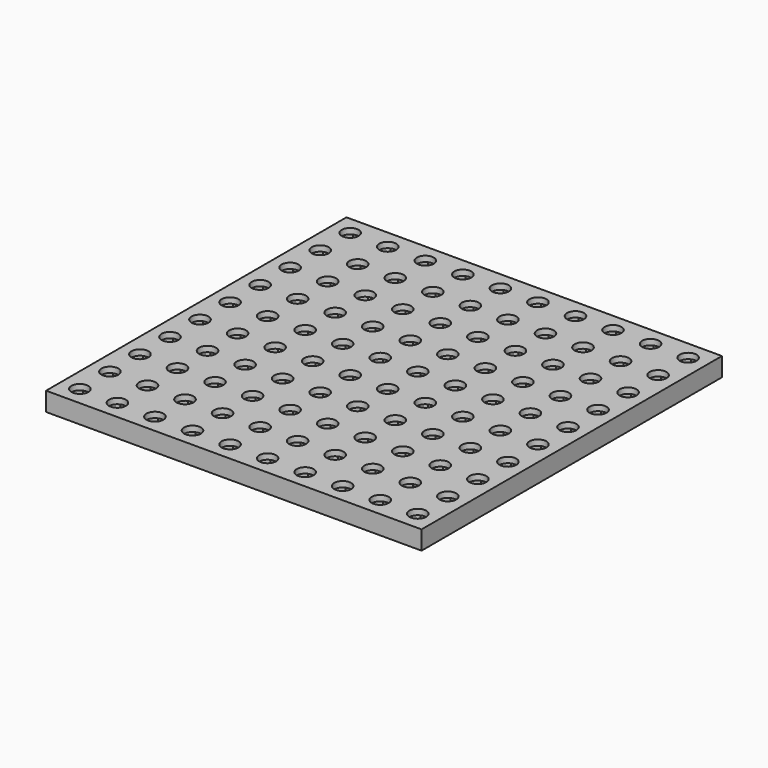
from build123d import *

# Parameters (mm, degrees)
PAD_DEPTH         = 3.5
CYLINDER002_R     = 2.25
CYLINDER002_DEPTH = 10
ARRAY_X_COUNT     = 10
ARRAY_X_PITCH     = 10
ARRAY_Y_COUNT     = 10
ARRAY_Y_PITCH     = 10
BOX001_W          = 100
BOX001_H          = 100
BOX001_DEPTH      = 5


with BuildPart() as body:
    # Sketch → Pad (new body)
    with BuildSketch(Plane.XY):
        Polygon((4, 0), (2, 3.464102), (-2, 3.464102), (-4, 0), (-2, -3.464102), (2, -3.464102), align=None)
    extrude(amount=PAD_DEPTH)


with BuildPart() as array:
    # Cylinder002 → Cylinder002 (new body)
    with BuildSketch(Plane.XY):
        Circle(CYLINDER002_R)
    extrude(amount=CYLINDER002_DEPTH)

    # Fusion002: union Body
    add(body.part)

    # Array X: Array ×10


with BuildPart() as array_1:
    add(array.part)
    with Locations(*[(i * ARRAY_X_PITCH, 0, 0) for i in range(1, ARRAY_X_COUNT)]):
        add(array.part)

    # Array Y: Array ×10


with BuildPart() as array_2:
    add(array_1.part)
    with Locations(*[(0, i * ARRAY_Y_PITCH, 0) for i in range(1, ARRAY_Y_COUNT)]):
        add(array_1.part)


with BuildPart() as obj1:
    # Box001 → Box001 (new body)
    with BuildSketch(Plane(origin=(-5, -5, 0), x_dir=(1, 0, 0), z_dir=(0, 0, 1))):
        with Locations((50, 50)):
            Rectangle(BOX001_W, BOX001_H)
    extrude(amount=BOX001_DEPTH)

    # Cut001: cut Array
    add(array_2.part, mode=Mode.SUBTRACT)


solid = obj1.part
